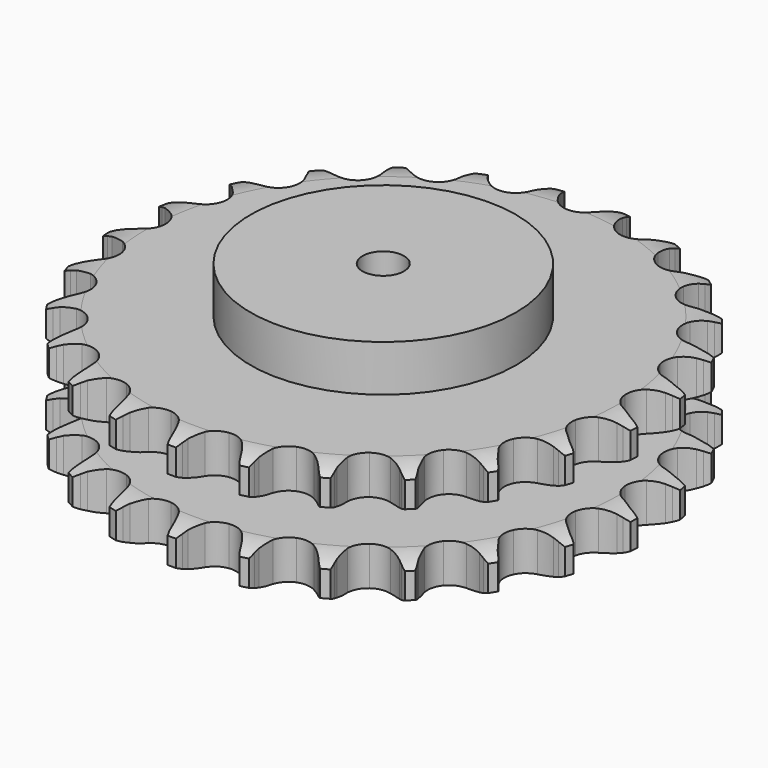
from build123d import *

# Parameters (mm, degrees)
PAD_DEPTH         = 72
SKETCH001_R       = 80
PAD001_DEPTH      = 100
SKETCH002_R       = 12.5
POCKET_DEPTH      = 0.001
POCKET_DEPTH_BACK = 100.001


with BuildPart() as part:
    # Sprocket → Pad (new body)
    with BuildSketch(Plane.XY):
        with BuildLine():
            ThreePointArc((-20.500057, 162.27466), (-17.831014, 158.990127), (-15.879451, 155.234685))
            Line((-15.879451, 155.234685), (-14.64466, 152.122308))
            ThreePointArc((-14.64466, 152.122308), (-12.679373, 148.016761), (-10.169778, 144.219419))
            ThreePointArc((-10.169778, 144.219419), (-5.67202, 140.518341), (0, 139.193202))
            ThreePointArc((0, 139.193202), (5.67202, 140.518341), (10.169778, 144.219419))
            ThreePointArc((10.169778, 144.219419), (12.679373, 148.016761), (14.64466, 152.122308))
            Line((14.64466, 152.122308), (15.879451, 155.234685))
            ThreePointArc((15.879451, 155.234685), (17.831014, 158.990127), (20.500057, 162.27466))
            ThreePointArc((20.500057, 162.27466), (22.268417, 158.429553), (23.224727, 154.306761))
            Line((23.224727, 154.306761), (23.646709, 150.985085))
            ThreePointArc((23.646709, 150.985085), (24.529244, 146.519774), (26.015635, 142.217622))
            ThreePointArc((26.015635, 142.217622), (29.451667, 137.514273), (34.615942, 134.820191))
            ThreePointArc((34.615942, 134.820191), (40.439314, 134.693125), (45.716187, 137.15938))
            Line((45.716187, 137.15938), (52.015851, 143.701127))
            ThreePointArc((52.015851, 143.701127), (52.966622, 145.079796), (53.985866, 146.408643))
            ThreePointArc((53.985866, 146.408643), (56.810057, 149.560767), (60.212077, 152.078346))
            ThreePointArc((60.212077, 152.078346), (60.968641, 147.914267), (60.869611, 143.683176))
            Line((60.869611, 143.683176), (60.452268, 140.360914))
            ThreePointArc((60.452268, 140.360914), (60.196599, 135.816411), (60.566391, 131.279769))
            ThreePointArc((60.566391, 131.279769), (62.724798, 125.869678), (67.056836, 121.975933))
            ThreePointArc((67.056836, 121.975933), (72.665656, 120.404644), (78.39008, 121.481113))
            Line((78.39008, 121.481113), (86.118694, 126.250676))
            ThreePointArc((86.118694, 126.250676), (87.382456, 127.349584), (88.700149, 128.383208))
            ThreePointArc((88.700149, 128.383208), (92.219515, 130.733954), (96.140751, 132.326391))
            ThreePointArc((96.140751, 132.326391), (95.837982, 128.104984), (94.689833, 124.031448))
            Line((94.689833, 124.031448), (93.459388, 120.91735))
            ThreePointArc((93.459388, 120.91735), (92.08158, 116.579203), (91.311537, 112.093124))
            ThreePointArc((91.311537, 112.093124), (92.056699, 106.316227), (95.284303, 101.467477))
            ThreePointArc((95.284303, 101.467477), (100.326149, 98.550697), (106.138435, 98.16974))
            Line((106.138435, 98.16974), (114.810384, 100.867431))
            ThreePointArc((114.810384, 100.867431), (116.307729, 101.617529), (117.841076, 102.290983))
            ThreePointArc((117.841076, 102.290983), (121.834482, 103.692646), (126.028547, 104.259882))
            ThreePointArc((126.028547, 104.259882), (124.685469, 100.246394), (122.560344, 96.586368))
            Line((122.560344, 96.586368), (120.594112, 93.876104))
            ThreePointArc((120.594112, 93.876104), (118.180737, 90.016895), (116.319243, 85.863257))
            ThreePointArc((116.319243, 85.863257), (115.604339, 80.082537), (117.524707, 74.583447))
            ThreePointArc((117.524707, 74.583447), (121.68278, 70.504447), (127.217723, 68.690001))
            Line((127.217723, 68.690001), (136.288114, 69.146313))
            ThreePointArc((136.288114, 69.146313), (137.92496, 69.500471), (139.577615, 69.77144))
            ThreePointArc((139.577615, 69.77144), (143.79414, 70.135947), (147.997507, 69.64234))
            ThreePointArc((147.997507, 69.64234), (145.69851, 66.088954), (142.729938, 63.072412))
            Line((142.729938, 63.072412), (140.151464, 60.936278))
            ThreePointArc((140.151464, 60.936278), (136.854163, 57.798495), (134.018184, 54.238285))
            ThreePointArc((134.018184, 54.238285), (131.888133, 48.816967), (132.380602, 43.013065))
            ThreePointArc((132.380602, 43.013065), (135.393635, 38.028144), (140.303453, 34.894218))
            Line((140.303453, 34.894218), (149.202361, 33.080479))
            ThreePointArc((149.202361, 33.080479), (150.875858, 33.016444), (152.543979, 32.8679))
            ThreePointArc((152.543979, 32.8679), (156.718683, 32.172349), (160.667239, 30.648915))
            ThreePointArc((160.667239, 30.648915), (157.556778, 27.778902), (153.931286, 25.595383))
            Line((153.931286, 25.595383), (150.902584, 24.167601))
            ThreePointArc((150.902584, 24.167601), (146.928539, 21.948403), (143.29627, 19.205323))
            ThreePointArc((143.29627, 19.205323), (139.884911, 14.484047), (138.918536, 8.740013))
            ThreePointArc((138.918536, 8.740013), (140.597209, 3.162392), (144.573401, -1.094098))
            Line((144.573401, -1.094098), (152.741675, -5.063923))
            ThreePointArc((152.741675, -5.063923), (154.346671, -5.542129), (155.925444, -6.10085))
            ThreePointArc((155.925444, -6.10085), (159.796015, -7.812756), (163.241657, -10.270295))
            ThreePointArc((163.241657, -10.270295), (159.515174, -12.276601), (155.460565, -13.489897))
            Line((155.460565, -13.489897), (152.17194, -14.119615))
            ThreePointArc((152.17194, -14.119615), (147.770855, -15.280789), (143.570523, -17.034381))
            ThreePointArc((143.570523, -17.034381), (139.092206, -20.758958), (136.727708, -26.082205))
            ThreePointArc((136.727708, -26.082205), (136.966544, -31.902065), (139.75927, -37.013668))
            Line((139.75927, -37.013668), (146.683668, -42.890141))
            ThreePointArc((146.683668, -42.890141), (148.119315, -43.752469), (149.50954, -44.686262))
            ThreePointArc((149.50954, -44.686262), (152.832776, -47.306957), (155.559002, -50.544184))
            ThreePointArc((155.559002, -50.544184), (151.450645, -51.56072), (147.221684, -51.727557))
            Line((147.221684, -51.727557), (143.879773, -51.519644))
            ThreePointArc((143.879773, -51.519644), (139.328184, -51.549832), (134.823713, -52.203752))
            ThreePointArc((134.823713, -52.203752), (129.559825, -54.697602), (125.945775, -59.265583))
            ThreePointArc((125.945775, -59.265583), (124.729768, -64.961997), (126.163551, -70.607533))
            Line((126.163551, -70.607533), (131.408987, -78.021413))
            ThreePointArc((131.408987, -78.021413), (132.585078, -79.213681), (133.699401, -80.463871))
            ThreePointArc((133.699401, -80.463871), (136.266492, -83.828688), (138.102003, -87.642196))
            ThreePointArc((138.102003, -87.642196), (133.869915, -87.605089), (129.732324, -86.714985))
            Line((129.732324, -86.714985), (126.547111, -85.682504))
            ThreePointArc((126.547111, -85.682504), (122.131011, -84.579809), (117.605433, -84.092969))
            ThreePointArc((117.605433, -84.092969), (111.886724, -85.199395), (107.250205, -88.725086))
            ThreePointArc((107.250205, -88.725086), (104.655761, -93.940128), (104.640512, -99.764866))
            Line((104.640512, -99.764866), (107.877395, -108.250313))
            ThreePointArc((107.877395, -108.250313), (108.720033, -109.697605), (109.488437, -111.18564))
            ThreePointArc((109.488437, -111.18564), (111.138082, -115.083154), (111.967546, -119.233327))
            ThreePointArc((111.967546, -119.233327), (107.877646, -118.144908), (104.091405, -116.253791))
            Line((104.091405, -116.253791), (101.263028, -114.461617))
            ThreePointArc((101.263028, -114.461617), (97.259898, -112.295327), (92.997571, -110.698315))
            ThreePointArc((92.997571, -110.698315), (87.183369, -110.347796), (81.815711, -112.609666))
            ThreePointArc((81.815711, -112.609666), (78.005848, -117.015656), (76.542524, -122.653607))
            Line((76.542524, -122.653607), (77.56747, -131.677448))
            ThreePointArc((77.56747, -131.677448), (78.023708, -133.288826), (78.397913, -134.921206))
            ThreePointArc((78.397913, -134.921206), (79.026459, -139.106522), (78.797758, -143.332589))
            ThreePointArc((78.797758, -143.332589), (75.107027, -141.261248), (71.91004, -138.487944))
            Line((71.91004, -138.487944), (69.616217, -136.048686))
            ThreePointArc((69.616217, -136.048686), (66.277587, -132.954915), (62.54633, -130.34808))
            ThreePointArc((62.54633, -130.34808), (57.001962, -128.56264), (51.240435, -129.418566))
            ThreePointArc((51.240435, -129.418566), (46.454541, -132.738659), (43.635089, -137.83557))
            Line((43.635089, -137.83557), (42.383696, -146.830804))
            ThreePointArc((42.383696, -146.830804), (42.424867, -148.50502), (42.381359, -150.179176))
            ThreePointArc((42.381359, -150.179176), (41.949312, -154.389316), (40.676816, -158.425737))
            ThreePointArc((40.676816, -158.425737), (37.617158, -155.501624), (35.210302, -152.02039))
            Line((35.210302, -152.02039), (33.595163, -149.087316))
            ThreePointArc((33.595163, -149.087316), (31.130812, -145.260458), (28.165073, -141.807595))
            ThreePointArc((28.165073, -141.807595), (23.238913, -138.699419), (17.445534, -138.095622))
            ThreePointArc((17.445534, -138.095622), (11.984323, -140.121205), (7.9859, -144.356817))
            Line((7.9859, -144.356817), (4.536798, -152.758241))
            ThreePointArc((4.536798, -152.758241), (4.160315, -154.390097), (3.701828, -156.000836))
            ThreePointArc((3.701828, -156.000836), (2.236335, -159.971261), (0, -163.564414))
            ThreePointArc((0, -163.564414), (-2.236335, -159.971261), (-3.701828, -156.000836))
            Line((-3.701828, -156.000836), (-4.536798, -152.758241))
            ThreePointArc((-4.536798, -152.758241), (-5.972027, -148.438751), (-7.9859, -144.356817))
            ThreePointArc((-7.9859, -144.356817), (-11.984323, -140.121205), (-17.445534, -138.095622))
            ThreePointArc((-17.445534, -138.095622), (-23.238913, -138.699419), (-28.165073, -141.807595))
            Line((-28.165073, -141.807595), (-33.595163, -149.087316))
            ThreePointArc((-33.595163, -149.087316), (-34.365645, -150.574276), (-35.210302, -152.02039))
            ThreePointArc((-35.210302, -152.02039), (-37.617158, -155.501624), (-40.676816, -158.425737))
            ThreePointArc((-40.676816, -158.425737), (-41.949312, -154.389316), (-42.381359, -150.179176))
            Line((-42.381359, -150.179176), (-42.383696, -146.830804))
            ThreePointArc((-42.383696, -146.830804), (-42.699621, -142.290092), (-43.635089, -137.83557))
            ThreePointArc((-43.635089, -137.83557), (-46.454541, -132.738659), (-51.240435, -129.418566))
            ThreePointArc((-51.240435, -129.418566), (-57.001962, -128.56264), (-62.54633, -130.34808))
            Line((-62.54633, -130.34808), (-69.616217, -136.048686))
            ThreePointArc((-69.616217, -136.048686), (-70.732285, -137.29732), (-71.91004, -138.487944))
            ThreePointArc((-71.91004, -138.487944), (-75.107027, -141.261248), (-78.797758, -143.332589))
            ThreePointArc((-78.797758, -143.332589), (-79.026459, -139.106522), (-78.397913, -134.921206))
            Line((-78.397913, -134.921206), (-77.56747, -131.677448))
            ThreePointArc((-77.56747, -131.677448), (-76.744241, -127.200824), (-76.542524, -122.653607))
            ThreePointArc((-76.542524, -122.653607), (-78.005848, -117.015656), (-81.815711, -112.609666))
            ThreePointArc((-81.815711, -112.609666), (-87.183369, -110.347796), (-92.997571, -110.698315))
            Line((-92.997571, -110.698315), (-101.263028, -114.461617))
            ThreePointArc((-101.263028, -114.461617), (-102.654555, -115.393468), (-104.091405, -116.253791))
            ThreePointArc((-104.091405, -116.253791), (-107.877646, -118.144908), (-111.967546, -119.233327))
            ThreePointArc((-111.967546, -119.233327), (-111.138082, -115.083154), (-109.488437, -111.18564))
            Line((-109.488437, -111.18564), (-107.877395, -108.250313))
            ThreePointArc((-107.877395, -108.250313), (-105.966738, -104.119059), (-104.640512, -99.764866))
            ThreePointArc((-104.640512, -99.764866), (-104.655761, -93.940128), (-107.250205, -88.725086))
            ThreePointArc((-107.250205, -88.725086), (-111.886724, -85.199395), (-117.605433, -84.092969))
            Line((-117.605433, -84.092969), (-126.547111, -85.682504))
            ThreePointArc((-126.547111, -85.682504), (-128.126662, -86.239021), (-129.732324, -86.714985))
            ThreePointArc((-129.732324, -86.714985), (-133.869915, -87.605089), (-138.102003, -87.642196))
            ThreePointArc((-138.102003, -87.642196), (-136.266492, -83.828688), (-133.699401, -80.463871))
            Line((-133.699401, -80.463871), (-131.408987, -78.021413))
            ThreePointArc((-131.408987, -78.021413), (-128.530955, -74.495111), (-126.163551, -70.607533))
            ThreePointArc((-126.163551, -70.607533), (-124.729768, -64.961997), (-125.945775, -59.265583))
            ThreePointArc((-125.945775, -59.265583), (-129.559825, -54.697602), (-134.823713, -52.203752))
            Line((-134.823713, -52.203752), (-143.879773, -51.519644))
            ThreePointArc((-143.879773, -51.519644), (-145.548099, -51.665858), (-147.221684, -51.727557))
            ThreePointArc((-147.221684, -51.727557), (-151.450645, -51.56072), (-155.559002, -50.544184))
            ThreePointArc((-155.559002, -50.544184), (-152.832776, -47.306957), (-149.50954, -44.686262))
            Line((-149.50954, -44.686262), (-146.683668, -42.890141))
            ThreePointArc((-146.683668, -42.890141), (-143.0191, -40.190362), (-139.75927, -37.013668))
            ThreePointArc((-139.75927, -37.013668), (-136.966544, -31.902065), (-136.727708, -26.082205))
            ThreePointArc((-136.727708, -26.082205), (-139.092206, -20.758958), (-143.570523, -17.034381))
            Line((-143.570523, -17.034381), (-152.17194, -14.119615))
            ThreePointArc((-152.17194, -14.119615), (-153.824215, -13.84634), (-155.460565, -13.489897))
            ThreePointArc((-155.460565, -13.489897), (-159.515174, -12.276601), (-163.241657, -10.270295))
            ThreePointArc((-163.241657, -10.270295), (-159.796015, -7.812756), (-155.925444, -6.10085))
            Line((-155.925444, -6.10085), (-152.741675, -5.063923))
            ThreePointArc((-152.741675, -5.063923), (-148.520828, -3.360304), (-144.573401, -1.094098))
            ThreePointArc((-144.573401, -1.094098), (-140.597209, 3.162392), (-138.918536, 8.740013))
            ThreePointArc((-138.918536, 8.740013), (-139.884911, 14.484047), (-143.29627, 19.205323))
            Line((-143.29627, 19.205323), (-150.902584, 24.167601))
            ThreePointArc((-150.902584, 24.167601), (-152.434989, 24.843195), (-153.931286, 25.595383))
            ThreePointArc((-153.931286, 25.595383), (-157.556778, 27.778902), (-160.667239, 30.648915))
            ThreePointArc((-160.667239, 30.648915), (-156.718683, 32.172349), (-152.543979, 32.8679))
            Line((-152.543979, 32.8679), (-149.202361, 33.080479))
            ThreePointArc((-149.202361, 33.080479), (-144.690447, 33.680894), (-140.303453, 34.894218))
            ThreePointArc((-140.303453, 34.894218), (-135.393635, 38.028144), (-132.380602, 43.013065))
            ThreePointArc((-132.380602, 43.013065), (-131.888133, 48.816967), (-134.018184, 54.238285))
            Line((-134.018184, 54.238285), (-140.151464, 60.936278))
            ThreePointArc((-140.151464, 60.936278), (-141.467712, 61.971741), (-142.729938, 63.072412))
            ThreePointArc((-142.729938, 63.072412), (-145.69851, 66.088954), (-147.997507, 69.64234))
            ThreePointArc((-147.997507, 69.64234), (-143.79414, 70.135947), (-139.577615, 69.77144))
            Line((-139.577615, 69.77144), (-136.288114, 69.146313))
            ThreePointArc((-136.288114, 69.146313), (-131.768633, 68.605798), (-127.217723, 68.690001))
            ThreePointArc((-127.217723, 68.690001), (-121.68278, 70.504447), (-117.524707, 74.583447))
            ThreePointArc((-117.524707, 74.583447), (-115.604339, 80.082537), (-116.319243, 85.863257))
            Line((-116.319243, 85.863257), (-120.594112, 93.876104))
            ThreePointArc((-120.594112, 93.876104), (-121.611499, 95.206374), (-122.560344, 96.586368))
            ThreePointArc((-122.560344, 96.586368), (-124.685469, 100.246394), (-126.028547, 104.259882))
            ThreePointArc((-126.028547, 104.259882), (-121.834482, 103.692646), (-117.841076, 102.290983))
            Line((-117.841076, 102.290983), (-114.810384, 100.867431))
            ThreePointArc((-114.810384, 100.867431), (-110.567311, 99.219947), (-106.138435, 98.16974))
            ThreePointArc((-106.138435, 98.16974), (-100.326149, 98.550697), (-95.284303, 101.467477))
            ThreePointArc((-95.284303, 101.467477), (-92.056699, 106.316227), (-91.311537, 112.093124))
            Line((-91.311537, 112.093124), (-93.459388, 120.91735))
            ThreePointArc((-93.459388, 120.91735), (-94.113987, 122.45884), (-94.689833, 124.031448))
            ThreePointArc((-94.689833, 124.031448), (-95.837982, 128.104984), (-96.140751, 132.326391))
            ThreePointArc((-96.140751, 132.326391), (-92.219515, 130.733954), (-88.700149, 128.383208))
            Line((-88.700149, 128.383208), (-86.118694, 126.250676))
            ThreePointArc((-86.118694, 126.250676), (-82.418638, 123.599742), (-78.39008, 121.481113))
            ThreePointArc((-78.39008, 121.481113), (-72.665656, 120.404644), (-67.056836, 121.975933))
            ThreePointArc((-67.056836, 121.975933), (-62.724798, 125.869678), (-60.566391, 131.279769))
            Line((-60.566391, 131.279769), (-60.452268, 140.360914))
            ThreePointArc((-60.452268, 140.360914), (-60.702948, 142.016767), (-60.869611, 143.683176))
            ThreePointArc((-60.869611, 143.683176), (-60.968641, 147.914267), (-60.212077, 152.078346))
            ThreePointArc((-60.212077, 152.078346), (-56.810057, 149.560767), (-53.985866, 146.408643))
            Line((-53.985866, 146.408643), (-52.015851, 143.701127))
            ThreePointArc((-52.015851, 143.701127), (-49.091299, 140.21331), (-45.716187, 137.15938))
            ThreePointArc((-45.716187, 137.15938), (-40.439314, 134.693125), (-34.615942, 134.820191))
            ThreePointArc((-34.615942, 134.820191), (-29.451667, 137.514273), (-26.015635, 142.217622))
            Line((-26.015635, 142.217622), (-23.646709, 150.985085))
            ThreePointArc((-23.646709, 150.985085), (-23.47772, 152.651259), (-23.224727, 154.306761))
            ThreePointArc((-23.224727, 154.306761), (-22.268417, 158.429553), (-20.500057, 162.27466))
        make_face()
    extrude(amount=PAD_DEPTH)

    # Sketch → Groove (revolve, cut)
    with BuildSketch(Plane.XZ):
        with BuildLine():
            ThreePointArc((142.529437, 0), (151.247235, 1.013516), (159.5, 4))
            Line((159.5, 4), (159.5, 19.6))
            ThreePointArc((159.5, 19.6), (151.247235, 22.586484), (142.529437, 23.6))
            Line((80, 23.6), (142.529437, 23.6))
            Line((80, 48.4), (80, 23.6))
            Line((142.529437, 48.4), (80, 48.4))
            ThreePointArc((142.529437, 48.4), (151.247235, 49.413516), (159.5, 52.4))
            Line((159.5, 52.4), (159.5, 68))
            ThreePointArc((159.5, 68), (151.247235, 70.986484), (142.529437, 72))
            Line((142.529437, 72), (169.5, 72))
            Line((169.5, 72), (169.5, 0))
            Line((142.529437, 0), (169.5, 0))
        make_face()
    revolve(axis=Axis((0, 0, 0), (0, 0, 1)), mode=Mode.SUBTRACT)

    # Sketch001 → Pad001 (join)
    with BuildSketch(Plane.XY):
        Circle(SKETCH001_R)
    extrude(amount=PAD001_DEPTH)

    # Sketch002 → Pocket (cut, two sides)
    with BuildSketch(Plane.XY) as pocket_sk:
        Circle(SKETCH002_R)
    extrude(amount=-POCKET_DEPTH, mode=Mode.SUBTRACT)
    extrude(pocket_sk.sketch, amount=POCKET_DEPTH_BACK, mode=Mode.SUBTRACT)


solid = part.part
